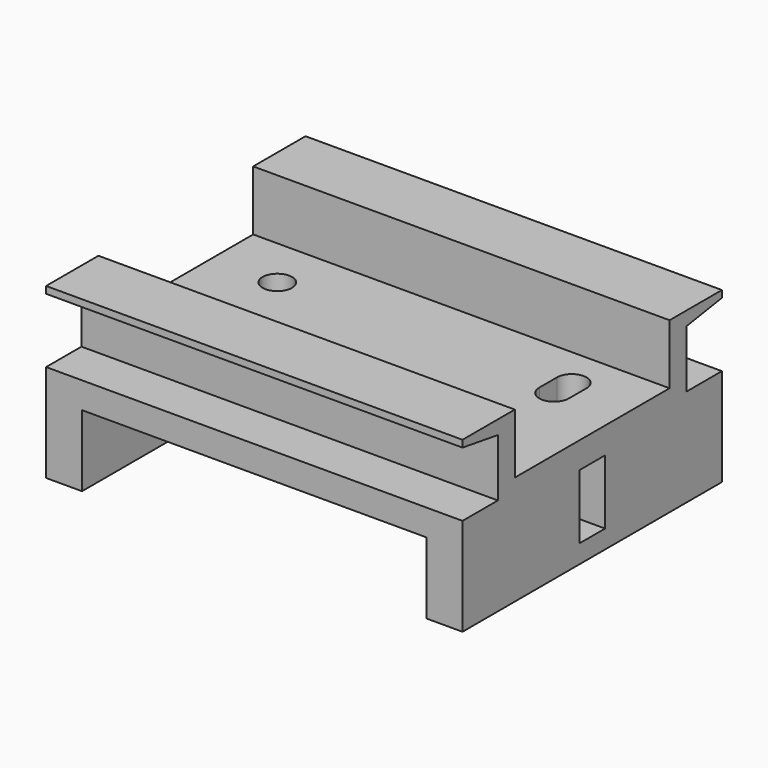
from build123d import *

# Parameters (mm, degrees)
F0_W      = 45.2
F0_H      = 35.2
F1_DEPTH  = 18.35
F2_W      = 37.4
F2_H      = 35.2
F3_DEPTH  = 7.75
F4_W      = 45.2
F4_H      = 21
F5_DEPTH  = 6.5
F6_W      = 4.8
F6_H      = 6.25
F7_DEPTH  = 45.201
F8_W      = 3.5
F8_H      = 7
F9_DEPTH  = 45.201
F10_R     = 1.6
F11_DEPTH = 11.851


with BuildPart() as f1:
    # F0 (on Top) → F1 (new body)
    with BuildSketch(Plane.XY):
        Rectangle(F0_W, F0_H)
    extrude(amount=F1_DEPTH)

    # F2 (on face) → F3 (cut)
    with BuildSketch(Plane(origin=(0, 0, 0), x_dir=(1, 0, 0), z_dir=(0, 0, -1))):
        Rectangle(F2_W, F2_H)
    extrude(amount=-F3_DEPTH, mode=Mode.SUBTRACT)

    # F4 (on face) → F5 (cut)
    with BuildSketch(Plane.XY.offset(18.35)):
        Rectangle(F4_W, F4_H)
    extrude(amount=-F5_DEPTH, mode=Mode.SUBTRACT)

    # F6 (on face) → F7 (cut, through all)
    with BuildSketch(Plane(origin=(-22.6, 0, 0), x_dir=(0, -1, 0), z_dir=(-1, 0, 0))):
        with Locations((-15.2, 13.725)):
            Rectangle(F6_W, F6_H)
        with Locations((15.2, 13.725)):
            Rectangle(F6_W, F6_H)
    extrude(amount=-F7_DEPTH, mode=Mode.SUBTRACT)

    # F8 (on face) → F9 (cut, through all)
    with BuildSketch(Plane(origin=(-22.6, 0, 0), x_dir=(0, -1, 0), z_dir=(-1, 0, 0))):
        Polygon((-12.8, 16.85), (-17.6, 17.6), (-17.6, 16.85), align=None)
        Polygon((17.6, 16.85), (17.6, 17.6), (12.8, 16.85), align=None)
        with Locations((0, 5.5)):
            Rectangle(F8_W, F8_H)
    extrude(amount=-F9_DEPTH, mode=Mode.SUBTRACT)

    # F10 (on face) → F11 (cut, through all)
    with BuildSketch(Plane.XY.offset(11.85)):
        with Locations((15.5, -4.9)):
            Circle(F10_R)
        with Locations((-15.5, 4.9)):
            Circle(F10_R)
        with BuildLine():
            ThreePointArc((-16.5583005244, -4.9), (-16.9583005244, -5.4416994756), (-17.1, -6.1))
            ThreePointArc((-17.1, -6.1), (-15.5, -7.7), (-13.9, -6.1))
            ThreePointArc((-13.9, -6.1), (-14.0416994756, -5.4416994756), (-14.4416994756, -4.9))
            ThreePointArc((-14.4416994756, -4.9), (-15.5, -5.3), (-16.5583005244, -4.9))
        make_face()
        with BuildLine():
            Line((-17.1, -3.7), (-17.1, -6.1))
            ThreePointArc((-17.1, -6.1), (-16.9583005244, -5.4416994756), (-16.5583005244, -4.9))
            ThreePointArc((-16.5583005244, -4.9), (-16.9583005244, -4.3583005244), (-17.1, -3.7))
        make_face()
        with BuildLine():
            ThreePointArc((-14.4416994756, -4.9), (-14.0416994756, -5.4416994756), (-13.9, -6.1))
            Line((-13.9, -6.1), (-13.9, -3.7))
            ThreePointArc((-13.9, -3.7), (-14.0416994756, -4.3583005244), (-14.4416994756, -4.9))
        make_face()
        with BuildLine():
            ThreePointArc((-17.1, -3.7), (-16.9583005244, -4.3583005244), (-16.5583005244, -4.9))
            ThreePointArc((-16.5583005244, -4.9), (-15.5, -4.5), (-14.4416994756, -4.9))
            ThreePointArc((-14.4416994756, -4.9), (-14.0416994756, -4.3583005244), (-13.9, -3.7))
            ThreePointArc((-13.9, -3.7), (-15.5, -2.1), (-17.1, -3.7))
        make_face()
        with BuildLine():
            ThreePointArc((14.4416994756, 4.9), (14.0416994756, 4.3583005244), (13.9, 3.7))
            ThreePointArc((13.9, 3.7), (15.5, 2.1), (17.1, 3.7))
            ThreePointArc((17.1, 3.7), (16.9583005244, 4.3583005244), (16.5583005244, 4.9))
            ThreePointArc((16.5583005244, 4.9), (15.5, 4.5), (14.4416994756, 4.9))
        make_face()
        with BuildLine():
            Line((13.9, 6.1), (13.9, 3.7))
            ThreePointArc((13.9, 3.7), (14.0416994756, 4.3583005244), (14.4416994756, 4.9))
            ThreePointArc((14.4416994756, 4.9), (14.0416994756, 5.4416994756), (13.9, 6.1))
        make_face()
        with BuildLine():
            ThreePointArc((16.5583005244, 4.9), (16.9583005244, 4.3583005244), (17.1, 3.7))
            Line((17.1, 3.7), (17.1, 6.1))
            ThreePointArc((17.1, 6.1), (16.9583005244, 5.4416994756), (16.5583005244, 4.9))
        make_face()
        with BuildLine():
            ThreePointArc((13.9, 6.1), (14.0416994756, 5.4416994756), (14.4416994756, 4.9))
            ThreePointArc((14.4416994756, 4.9), (15.5, 5.3), (16.5583005244, 4.9))
            ThreePointArc((16.5583005244, 4.9), (16.9583005244, 5.4416994756), (17.1, 6.1))
            ThreePointArc((17.1, 6.1), (15.5, 7.7), (13.9, 6.1))
        make_face()
        with BuildLine():
            ThreePointArc((16.5583005244, 4.9), (15.5, 5.3), (14.4416994756, 4.9))
            ThreePointArc((14.4416994756, 4.9), (15.5, 4.5), (16.5583005244, 4.9))
        make_face()
        with BuildLine():
            ThreePointArc((-14.4416994756, -4.9), (-15.5, -4.5), (-16.5583005244, -4.9))
            ThreePointArc((-16.5583005244, -4.9), (-15.5, -5.3), (-14.4416994756, -4.9))
        make_face()
    extrude(amount=-F11_DEPTH, mode=Mode.SUBTRACT)


solid = f1.part
